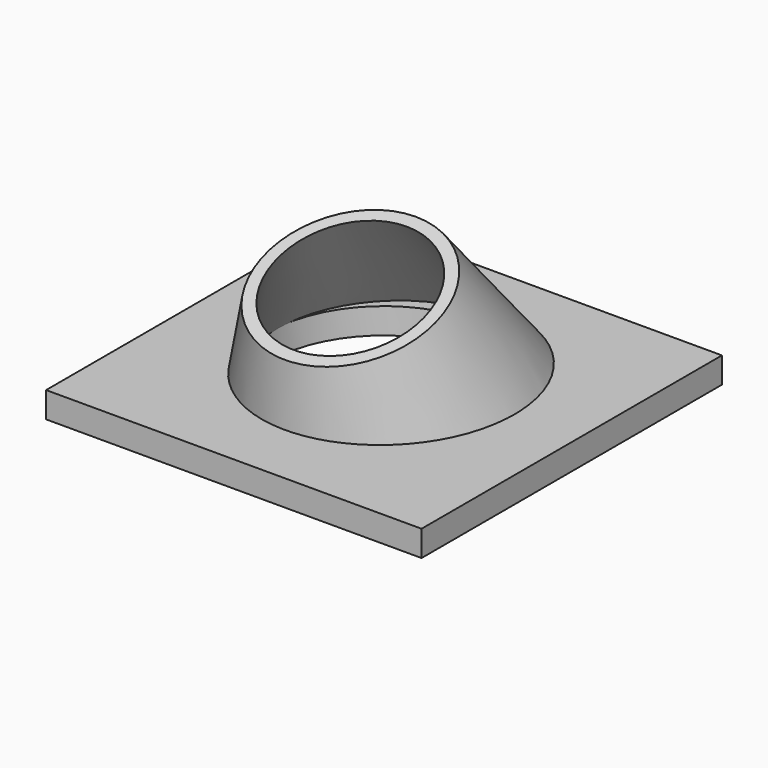
from build123d import *

# Parameters (mm, degrees)
F8_DEPTH      = 956.7613239616
F8_DEPTH_BACK = 838.201
F9_W          = 2540
F9_H          = 2540
F9_R          = 762
F10_DEPTH     = 174.625


with BuildPart() as f6:
    # F5 (on Right) → F6 (revolve)
    with BuildSketch(Plane.YZ):
        Polygon((207.6453230735, 797.4220353942), (192.7277027185, 791.9924656189), (478.4467952241, 451.4857106525), (857.2882885145, 0), (956.7603239616, 0), (536.8193817898, 500.4661265106), (268.9277027185, 819.72699747), align=None)
    revolve(axis=Axis((0, -172.1245355458, 309.1231164047), (0, 0.3420201433, -0.9396926208)))

    # F7 (on Front) → F8 (cut, two sides)
    with BuildSketch(Plane.XZ) as f8_sk:
        Polygon((762, 0), (-762, 0), (-3048, 0), (-3048, -2540), (4572, -2540), (4572, 0), align=None)
    extrude(amount=-F8_DEPTH, mode=Mode.SUBTRACT)
    extrude(f8_sk.sketch, amount=F8_DEPTH_BACK, mode=Mode.SUBTRACT)


with BuildPart() as f10:
    # F9 (on Top) → F10 (new body)
    with BuildSketch(Plane.XY):
        Rectangle(F9_W, F9_H)
        Circle(F9_R, mode=Mode.SUBTRACT)
    extrude(amount=-F10_DEPTH)


solid = Compound([f6.part, f10.part])
